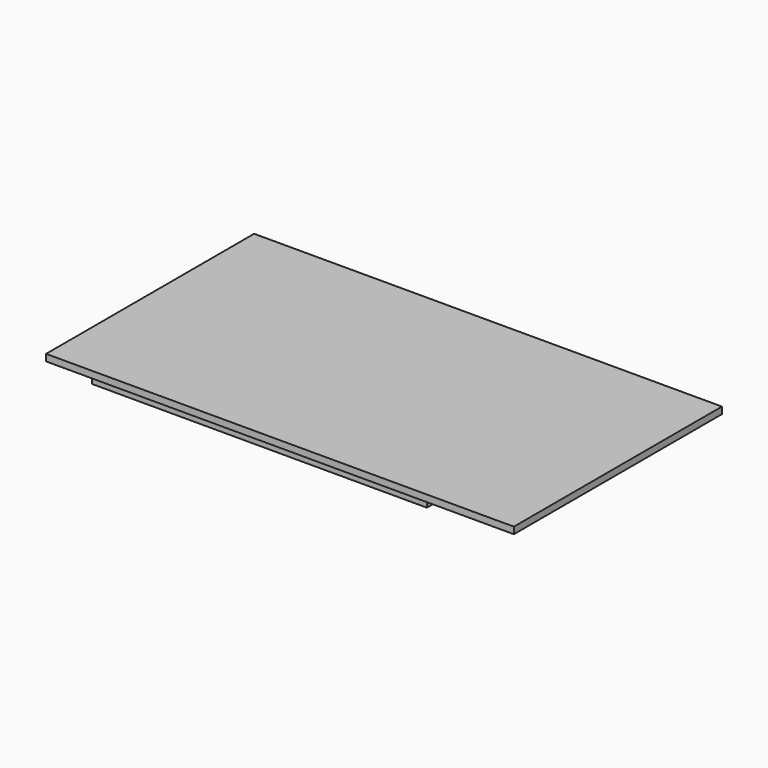
from build123d import *

# Parameters (mm, degrees)
BOX122_W     = 69.8
BOX122_H     = 38.8
BOX122_DEPTH = 1
BOX084_W     = 50
BOX084_H     = 23
BOX084_DEPTH = 1


with BuildPart() as board004:
    # Box122 → Box122 (new body)
    with BuildSketch(Plane(origin=(-42.5, -19.4, 18.5), x_dir=(1, 0, 0), z_dir=(0, 0, 1))):
        with Locations((34.9, 19.4)):
            Rectangle(BOX122_W, BOX122_H)
    extrude(amount=BOX122_DEPTH)


with BuildPart() as fusion140:
    # Box084 → Box084 (new body)
    with BuildSketch(Plane(origin=(-42, -11.5, 12.5), x_dir=(1, 0, 0), z_dir=(0, 0, 1))):
        with Locations((25, 11.5)):
            Rectangle(BOX084_W, BOX084_H)
    extrude(amount=BOX084_DEPTH)

    # Fusion140: union board004
    add(board004.part)


solid = fusion140.part
